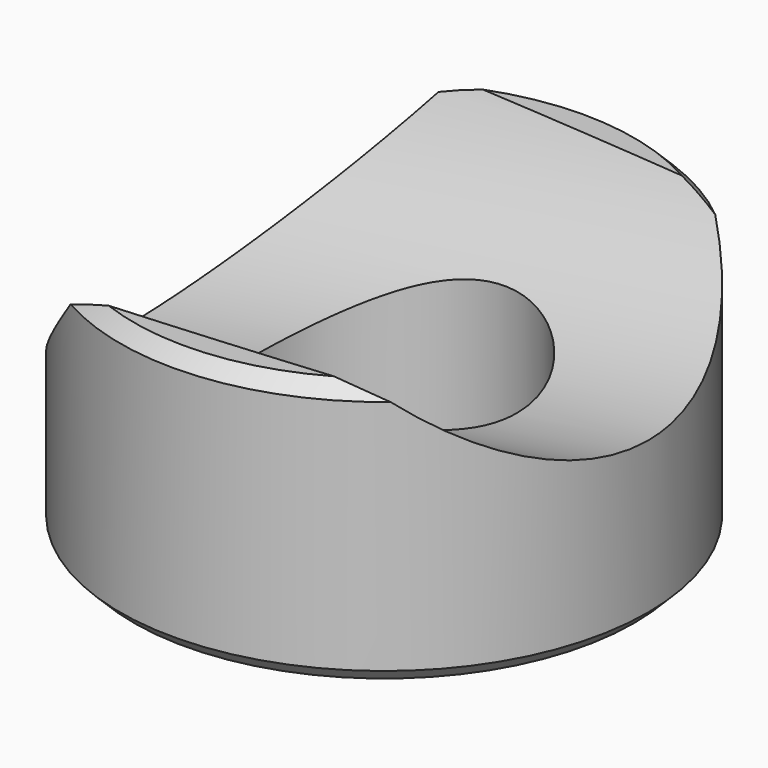
from build123d import *

# Parameters (mm, degrees)
F0_R     = 14.5
F0_R_2   = 7.3
F1_DEPTH = 14.53
F4_SIZE  = 0.762
F5_R     = 14.25
F6_DEPTH = 127


with BuildPart() as f1:
    # F0 (on Top) → F1 (new body)
    with BuildSketch(Plane.XY):
        Circle(F0_R)
        Circle(F0_R_2, mode=Mode.SUBTRACT)
    extrude(amount=F1_DEPTH)

    # F4
    f4_edges = [f1.edges().sort_by_distance(p)[0] for p in [
        (-14.5, 0, 14.53),
        (-14.5, 0, 0),
    ]]
    chamfer(f4_edges, length=F4_SIZE)

    # F5 (on face) → F6 (cut)
    with BuildSketch(Plane(origin=(-13.530054, 0, -1.901525), x_dir=(0, -1, 0), z_dir=(-0.990268, 0, -0.139173))):
        with Locations((0, 21.21935)):
            Circle(F5_R)
    extrude(amount=-F6_DEPTH, mode=Mode.SUBTRACT)


solid = f1.part
